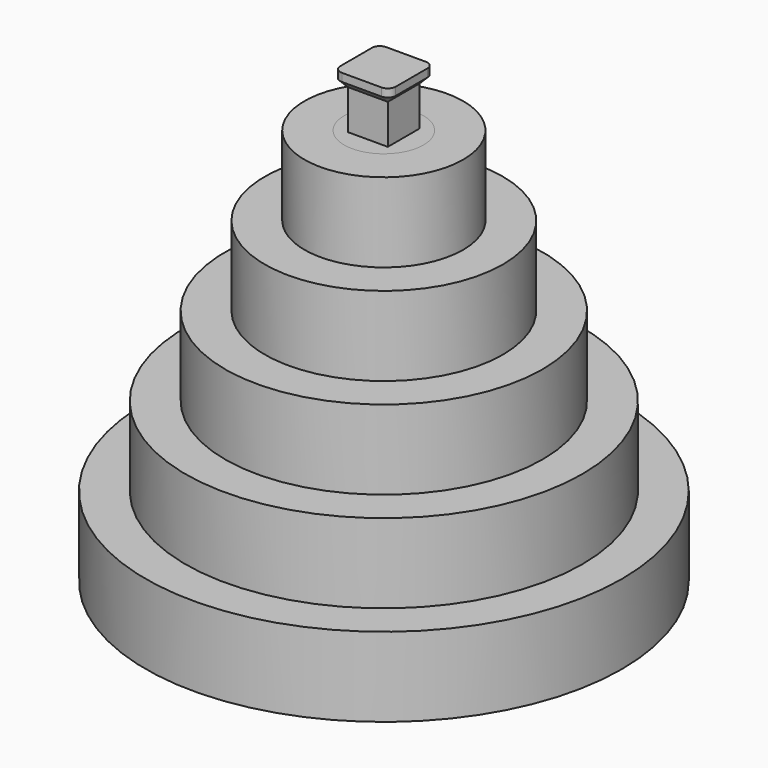
from build123d import *

# Parameters (mm, degrees)
SKETCH001_R   = 6
PAD_DEPTH     = 1
SKETCH002_R   = 5
PAD001_DEPTH  = 1
SKETCH003_W   = 5
SKETCH003_H   = 5
PAD002_DEPTH  = 5
PAD003_DEPTH  = 2
CHAMFER_SIZE  = 0.99
ARRAY_Z_COUNT = 5
ARRAY_Z_PITCH = 10


with BuildPart() as revolution:
    # Sketch → Revolution (revolve)
    with BuildSketch(Plane.XZ):
        Polygon((5, 10), (30, 10), (30, 0), (28, 0), (28, 9), (5, 9), align=None)
    revolve(axis=Axis((0, 0, 0), (0, 0, 1)))


with BuildPart() as revolution001:
    # Sketch005 → Revolution001 (revolve)
    with BuildSketch(Plane(origin=(0, 0, 10), x_dir=(1, 0, 0), z_dir=(0, -1, 0))):
        Polygon((5, 10), (25, 10), (25, 0), (23, 0), (23, 9), (5, 9), align=None)
    revolve(axis=Axis((0, 0, 10), (0, 0, 1)))


with BuildPart() as revolution002:
    # Sketch006 → Revolution002 (revolve)
    with BuildSketch(Plane(origin=(0, 0, 20), x_dir=(1, 0, 0), z_dir=(0, -1, 0))):
        Polygon((5, 10), (20, 10), (20, 0), (18, 0), (18, 9), (5, 9), align=None)
    revolve(axis=Axis((0, 0, 20), (0, 0, 1)))


with BuildPart() as revolution003:
    # Sketch007 → Revolution003 (revolve)
    with BuildSketch(Plane(origin=(0, 0, 30), x_dir=(1, 0, 0), z_dir=(0, -1, 0))):
        Polygon((5, 10), (15, 10), (15, 0), (13, 0), (13, 9), (5, 9), align=None)
    revolve(axis=Axis((0, 0, 30), (0, 0, 1)))


with BuildPart() as revolution004:
    # Sketch008 → Revolution004 (revolve)
    with BuildSketch(Plane(origin=(0, 0, 40), x_dir=(1, 0, 0), z_dir=(0, -1, 0))):
        Polygon((5, 10), (10, 10), (10, 0), (8, 0), (8, 9), (5, 9), align=None)
    revolve(axis=Axis((0, 0, 40), (0, 0, 1)))


with BuildPart() as array:
    # Sketch001 → Pad (new body)
    with BuildSketch(Plane.XY.offset(8)):
        Circle(SKETCH001_R)
    extrude(amount=PAD_DEPTH)

    # Sketch002 → Pad001 (new body)
    with BuildSketch(Plane.XY.offset(9)):
        Circle(SKETCH002_R)
    extrude(amount=PAD001_DEPTH)

    # Sketch003 → Pad002 (new body)
    with BuildSketch(Plane.XY.offset(10)):
        Rectangle(SKETCH003_W, SKETCH003_H)
    extrude(amount=PAD002_DEPTH)

    # Sketch004 → Pad003 (new body)
    with BuildSketch(Plane.XY.offset(15)):
        with BuildLine():
            Line((-2.5, 3.5), (2.5, 3.5))
            ThreePointArc((3.5, 2.5), (3.207107, 3.207107), (2.5, 3.5))
            Line((3.5, 2.5), (3.5, -2.5))
            ThreePointArc((2.5, -3.5), (3.207107, -3.207107), (3.5, -2.5))
            Line((2.5, -3.5), (-2.5, -3.5))
            ThreePointArc((-3.5, -2.5), (-3.207107, -3.207107), (-2.5, -3.5))
            Line((-3.5, -2.5), (-3.5, 2.5))
            ThreePointArc((-2.5, 3.5), (-3.207107, 3.207107), (-3.5, 2.5))
        make_face()
    extrude(amount=PAD003_DEPTH)

    # Chamfer
    chamfer_edges = [array.edges().sort_by_distance(p)[0] for p in [
        (-3.207107, 3.207107, 15),
    ]]
    chamfer(chamfer_edges, length=CHAMFER_SIZE)

    # Array Z: Array ×5


with BuildPart() as array_1:
    add(array.part)
    with Locations(*[(0, 0, i * ARRAY_Z_PITCH) for i in range(1, ARRAY_Z_COUNT)]):
        add(array.part)


solid = Compound([revolution.part, revolution001.part, revolution002.part, revolution003.part, revolution004.part, array_1.part])
